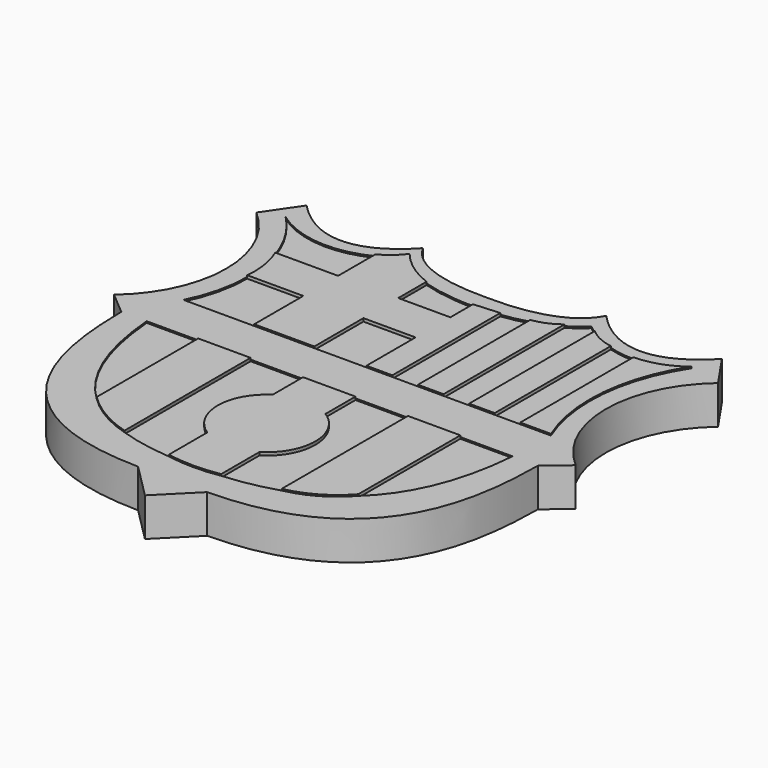
from build123d import *

# Parameters (mm, degrees)
F0_W     = 38.1
F0_H     = 76.2
F1_DEPTH = 6.35
F3_DEPTH = 6.35
F5_W     = 8.6051712304
F5_H     = 10.1246496194
F6_DEPTH = 0.254
F8_DEPTH = 0.254


with BuildPart() as f1:
    # F0 (on Top) → F1 (new body)
    with BuildSketch(Plane.XY):
        Rectangle(F0_W, F0_H)
    extrude(amount=F1_DEPTH)

    # F2 (on face) → F3 (cut)
    with BuildSketch(Plane.XY.offset(6.35)):
        with BuildLine():
            Line((-3.9472845383, 38.1), (-3.8636967831, 38.1))
            add(Edge.make_bspline(
                [(-3.9472845383, 38.1), (-3.9204592136, 38.1251084892), (-3.8998782769, 38.127174182), (-3.8636967831, 38.1)],
                knots=[0.4563634252, 0.4563634252, 0.4563634252, 0.4563634252, 0.4871979804, 0.4871979804, 0.4871979804, 0.4871979804], degree=3))
        make_face()
        with BuildLine():
            add(Edge.make_bspline(
                [(-19.05, 32.5106605887), (-6.1091777888, 32.3092094071), (-4.3443097915, 37.7283845811), (-3.9472845383, 38.1)],
                knots=[0, 0, 0, 0, 0.4563634252, 0.4563634252, 0.4563634252, 0.4563634252], degree=3))
            Line((-3.9472845383, 38.1), (-19.05, 38.1))
            Line((-19.05, 38.1), (-19.05, 32.5106605887))
        make_face()
        with BuildLine():
            Line((19.05, -38.1), (19.05, 3.1485415529))
            Line((19.05, 3.1485415529), (15.3276119381, 0))
            add(Edge.make_bspline(
                [(15.3276119381, 0), (15.1655543596, -11.4850010723), (13.7070389464, -32.0684760809), (-13.3565291762, -32.3926247656)],
                knots=[0, 0, 0, 0, 43.2673328352, 43.2673328352, 43.2673328352, 43.2673328352], degree=3))
            Line((-13.3565291762, -32.3926247656), (-19.05, -38.1))
            Line((-19.05, -38.1), (19.05, -38.1))
        make_face()
        with BuildLine():
            Line((19.05, 3.1485415529), (19.05, 32.5106605887))
            ThreePointArc((19.05, 32.5106605887), (12.2820636744, 17.8296010708), (19.05, 3.1485415529))
        make_face()
        Polygon((15.2206547403, 38.1), (19.05, 32.5106605887), (19.05, 38.1), align=None)
        with BuildLine():
            add(Edge.make_bspline(
                [(-3.8636967831, 38.1), (-3.843737622, 38.0850096328), (-3.0988894532, 37.3648301618), (5.2937592339, 27.6119129043), (15.2206547403, 38.1)],
                knots=[0.4871979804, 0.4871979804, 0.4871979804, 0.4871979804, 0.5042075561, 1, 1, 1, 1], degree=3))
            Line((15.2206547403, 38.1), (-3.8636967831, 38.1))
        make_face()
    extrude(amount=-F3_DEPTH, mode=Mode.SUBTRACT)

    # F4: F1 across face


with BuildPart() as f1_1:
    add(f1.part)
    add(f1.part.mirror(Plane(origin=(-19.05, -2.7946697056, 3.175), x_dir=(0, -1, 0), z_dir=(-1, 0, 0))))

    # F5 (on face) → F6 (cut)
    with BuildSketch(Plane.XY.offset(6.35)):
        with BuildLine():
            ThreePointArc((-37.5772565603, 32.5917619335), (-45.671204203, 31.008244813), (-53.4049263852, 33.873389857))
            ThreePointArc((-53.4049263852, 33.873389857), (-50.1581802259, 29.7090041206), (-47.9535559256, 24.9107647687))
            Line((-47.9535559256, 24.9107647687), (-37.5772565603, 24.9107647687))
            Line((-37.5772565603, 24.9107647687), (-37.5772565603, 32.5917619335))
        make_face()
        with BuildLine():
            Line((-37.5772565603, 17.7330877632), (-46.8293691707, 17.7330877632))
            ThreePointArc((-46.8293691707, 17.7330877632), (-47.4515529833, 12.5316587806), (-49.2414900542, 7.6084381438))
            Line((-49.2414900542, 7.6084381438), (-37.5772565603, 7.6084381438))
            Line((-37.5772565603, 7.6084381438), (-37.5772565603, 17.7330877632))
        make_face()
        with Locations((-23.3525856152, 12.6707629535)):
            Rectangle(F5_W, F5_H)
        with BuildLine():
            add(Edge.make_bspline(
                [(-27.6551712304, 30.7719508767), (-25.0542603527, 29.9722405749), (-22.0663375313, 29.5693060648), (-19.05, 29.5798139295)],
                knots=[8.2498540023, 8.2498540023, 8.2498540023, 8.2498540023, 15.7954011192, 15.7954011192, 15.7954011192, 15.7954011192], degree=3))
            Line((-27.6551712304, 30.7719508767), (-27.6551712304, 24.9107647687))
            Line((-27.6551712304, 24.9107647687), (-19.05, 24.9107647687))
            Line((-19.05, 24.9107647687), (-19.05, 29.5798139295))
        make_face()
        with BuildLine():
            add(Edge.make_bspline(
                [(-14.7775728256, 29.8755089086), (-13.3218013512, 30.0752082684), (-11.9002315961, 30.3766424012), (-10.555408895, 30.7817886934)],
                knots=[19.3738855113, 19.3738855113, 19.3738855113, 19.3738855113, 23.0815953476, 23.0815953476, 23.0815953476, 23.0815953476], degree=3))
            Line((-14.7775728256, 29.8755089086), (-14.7775728256, 7.6084381438))
            Line((-14.7775728256, 7.6084381438), (-10.555408895, 7.6084381438))
            Line((-10.555408895, 7.6084381438), (-10.555408895, 30.7817886934))
        make_face()
        with BuildLine():
            add(Edge.make_bspline(
                [(-6.3332454301, 32.5660842134), (-5.2855915186, 33.1701122102), (-4.348215472, 33.8675739108), (-3.5563470113, 34.6601066929)],
                knots=[27.291897076, 27.291897076, 27.291897076, 27.291897076, 30.7735982336, 30.7735982336, 30.7735982336, 30.7735982336], degree=3))
            Line((-6.3332454301, 32.5660842134), (-6.3332454301, 7.6084381438))
            Line((-6.3332454301, 7.6084381438), (-2.1110819653, 7.6084381438))
            Line((-2.1110819653, 7.6084381438), (-2.1110819653, 33.5563536252))
            ThreePointArc((-2.1110819653, 33.5563536252), (-2.8501925125, 34.0866536733), (-3.5563470113, 34.6601066929))
        make_face()
        with BuildLine():
            ThreePointArc((6.3332458958, 30.9586713834), (4.2005089038, 31.1180342806), (2.1110812668, 31.5743847599))
            Line((2.1110812668, 31.5743847599), (2.1110812668, 7.6084381438))
            Line((2.1110812668, 7.6084381438), (6.3332458958, 7.6084381438))
            Line((6.3332458958, 7.6084381438), (6.3332458958, 30.9586713834))
        make_face()
        with BuildLine():
            Line((11.1414900542, 0), (2.5332975201, 0))
            Line((2.5332975201, 0), (2.5332975201, -21.0394149611))
            add(Edge.make_bspline(
                [(2.5332975201, -21.0394149611), (7.0844292813, -16.8218684935), (10.3040141885, -10.1988507211), (11.1414900542, 0)],
                knots=[0.7794890643, 0.7794890643, 0.7794890643, 0.7794890643, 1, 1, 1, 1], degree=3))
        make_face()
        with BuildLine():
            Line((-6.1221369542, 0), (-14.7775728256, 0))
            Line((-14.7775728256, 0), (-14.7775728256, -6.1859292111))
            ThreePointArc((-14.7775728256, -6.1859292111), (-12.0094062526, -9.1081265301), (-11.0027304346, -13.0053803252))
            ThreePointArc((-11.0027304346, -13.0053803252), (-12.0094062526, -16.9026341203), (-14.7775728256, -19.8248314393))
            Line((-14.7775728256, -19.8248314393), (-14.7775728256, -27.7072399522))
            add(Edge.make_bspline(
                [(-14.7775728256, -27.7072399522), (-11.7973621926, -27.4741929831), (-8.8730169385, -26.9647393053), (-6.1221369542, -26.0478686811)],
                knots=[0.5504848433, 0.5504848433, 0.5504848433, 0.5504848433, 0.6567583921, 0.6567583921, 0.6567583921, 0.6567583921], degree=3))
            Line((-6.1221369542, -26.0478686811), (-6.1221369542, 0))
        make_face()
        with BuildLine():
            Line((-23.4330072999, 0), (-32.0884436369, 0))
            Line((-32.0884436369, 0), (-32.0884436369, -26.0107606504))
            add(Edge.make_bspline(
                [(-32.0884436369, -26.0107606504), (-29.3393823668, -26.9395470029), (-26.4149145694, -27.4583082328), (-23.4330072999, -27.6984636108)],
                knots=[0.341816395, 0.341816395, 0.341816395, 0.341816395, 0.4482004295, 0.4482004295, 0.4482004295, 0.4482004295], degree=3))
            Line((-23.4330072999, -27.6984636108), (-23.4330072999, -19.7542909386))
            ThreePointArc((-23.4330072999, -19.7542909386), (-27.0972695654, -13.0053803252), (-23.4330072999, -6.2564697118))
            Line((-23.4330072999, -6.2564697118), (-23.4330072999, 0))
        make_face()
        with BuildLine():
            Line((-40.7438799739, 0), (-49.2414900542, 0))
            add(Edge.make_bspline(
                [(-49.2414900542, 0), (-48.410813311, -10.1160504409), (-45.236549248, -16.7140936827), (-40.7438799739, -20.9362171076)],
                knots=[0, 0, 0, 0, 0.218720698, 0.218720698, 0.218720698, 0.218720698], degree=3))
            Line((-40.7438799739, -20.9362171076), (-40.7438799739, 0))
        make_face()
    extrude(amount=-F6_DEPTH, mode=Mode.SUBTRACT)

    # F7 (on face) → F8 (join)
    with BuildSketch(Plane.XY.offset(6.35)):
        with BuildLine():
            Line((-40.7438799739, 0), (-40.7438799765, -20.9362171051))
            ThreePointArc((-40.7438799765, -20.9362171051), (-36.7357760167, -24.0186414564), (-32.0884436271, -26.0107606537))
            Line((-32.0884436271, -26.0107606537), (-32.0884436369, 0))
            Line((-32.0884436369, 0), (-40.7438799739, 0))
        make_face()
        with BuildLine():
            Line((-10.5554089048, 30.7817886905), (-10.555408895, 7.6084381438))
            Line((-10.555408895, 7.6084381438), (-6.3332454301, 7.6084381438))
            Line((-6.3332454301, 7.6084381438), (-6.3332454301, 32.5660842134))
            ThreePointArc((-6.3332454301, 32.5660842134), (-8.3220779988, 31.3846592732), (-10.5554089048, 30.7817886905))
        make_face()
        with BuildLine():
            Line((-2.1110819653, 33.5563536252), (-2.1110819653, 7.6084381438))
            Line((-2.1110819653, 7.6084381438), (2.1110812668, 7.6084381438))
            Line((2.1110812668, 7.6084381438), (2.1110812668, 31.5743847599))
            ThreePointArc((2.1110812668, 31.5743847599), (-0.1480933869, 32.2498884656), (-2.1110819653, 33.5563536252))
        make_face()
        Polygon((-19.05, 17.7330877632), (-19.05, 7.6084381438), (-14.7775728256, 7.6084381438), (-14.7775728256, 29.8755089086), (-19.05, 29.5798139295), (-19.05, 24.9107647687), align=None)
        with BuildLine():
            Line((-6.1221369542, 0), (-6.1221369542, -26.0478686811))
            ThreePointArc((-6.122136964, -26.0478686844), (-1.3860461596, -24.2493787213), (2.5332975225, -21.0394149589))
            Line((2.5332975201, -21.0394149611), (2.5332975201, 0))
            Line((2.5332975201, 0), (-6.1221369542, 0))
        make_face()
        with BuildLine():
            Line((-23.4330072999, -19.7542909386), (-23.4330072999, -27.6984636108))
            ThreePointArc((-23.4330072999, -27.6984636108), (-19.1056699461, -28.0775017142), (-14.7775728256, -27.7072399522))
            Line((-14.7775728256, -27.7072399522), (-14.7775728256, -19.8248314393))
            ThreePointArc((-14.7775728256, -19.8248314393), (-11.0027304346, -13.0053803252), (-14.7775728256, -6.1859292111))
            Line((-14.7775728256, -6.1859292111), (-14.7775728256, 0))
            Line((-14.7775728256, 0), (-23.4330072999, 0))
            Line((-23.4330072999, 0), (-23.4330072999, -6.2564697118))
            ThreePointArc((-23.4330072999, -6.2564697118), (-27.0972695654, -13.0053803252), (-23.4330072999, -19.7542909386))
        make_face()
        with BuildLine():
            Line((6.3332458958, 30.9586713834), (6.3332458958, 7.6084381438))
            Line((6.3332458958, 7.6084381438), (11.3998418674, 7.6084381438))
            ThreePointArc((11.3998418674, 7.6084381438), (9.3955290294, 20.8910955307), (13.7893487286, 33.5852125012))
            ThreePointArc((13.7893487286, 33.5852125012), (10.2858459166, 31.6345038021), (6.3332458958, 30.9586713834))
        make_face()
        with BuildLine():
            Line((-37.5772565603, 17.7330877632), (-37.5772565603, 7.6084381438))
            Line((-37.5772565603, 7.6084381438), (-27.6551712304, 7.6084381438))
            Line((-27.6551712304, 7.6084381438), (-27.6551712304, 17.7330877632))
            Line((-27.6551712304, 17.7330877632), (-19.05, 17.7330877632))
            Line((-19.05, 17.7330877632), (-19.05, 24.9107647687))
            Line((-19.05, 24.9107647687), (-27.6551712304, 24.9107647687))
            Line((-27.6551712304, 24.9107647687), (-27.6551712305, 30.7719508767))
            ThreePointArc((-27.6551712305, 30.7719508767), (-31.2495313727, 32.6633513709), (-34.2058315873, 35.4485101998))
            ThreePointArc((-34.2058315873, 35.4485101998), (-35.7322331398, 33.8321233993), (-37.5772565603, 32.5917619335))
            Line((-37.5772565603, 32.5917619335), (-37.5772565603, 24.9107647687))
            Line((-37.5772565603, 24.9107647687), (-47.9535559256, 24.9107647687))
            ThreePointArc((-47.9535559256, 24.9107647687), (-46.9346789734, 21.3934689174), (-46.8293691707, 17.7330877632))
            Line((-46.8293691707, 17.7330877632), (-37.5772565603, 17.7330877632))
        make_face()
    extrude(amount=F8_DEPTH)


solid = f1_1.part
